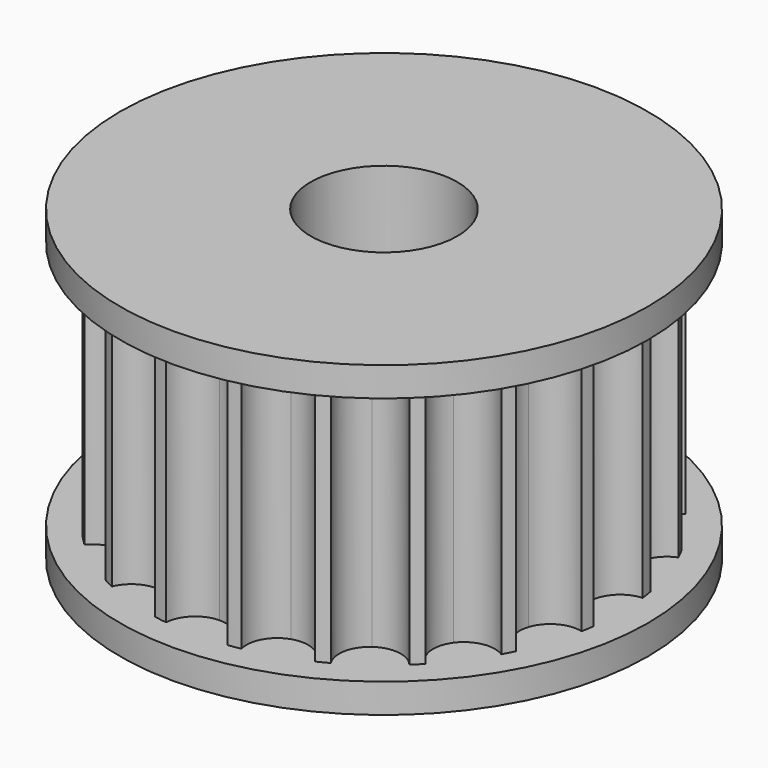
from build123d import *

# Parameters (mm, degrees)
F3_DEPTH = 8.5


with BuildPart() as f1:
    # F0 (on Front) → F1 (revolve)
    with BuildSketch(Plane.XZ):
        Polygon((9, 5.25), (2.5, 5.25), (2.5, -5.25), (9, -5.25), (9, -4.25), (7, -4.25), (7, 4.25), (9, 4.25), align=None)
    revolve(axis=Axis((0, 0, -3.0081442633), (0, 0, -1)))

    # F2 (on face) → F3 (join)
    with BuildSketch(Plane.XY.offset(-4.25)):
        with BuildLine():
            ThreePointArc((7.267101182, -3.4629092409), (6.7053936496, -2.9334995134), (6.657395615, -2.1631189579))
            ThreePointArc((6.657395615, -2.1631189579), (6.2370456655, -3.1779335057), (5.663118949, -4.114496782))
            ThreePointArc((5.663118949, -4.114496782), (6.3145824491, -3.7005096665), (7.0730473275, -3.8437613743))
            ThreePointArc((7.0730473275, -3.8437613743), (7.1726025197, -3.6546235229), (7.267101182, -3.4629092409))
        make_face()
        with BuildLine():
            ThreePointArc((7.9815217391, -1.0477646338), (7.2837095283, -0.7178432371), (7, 0))
            ThreePointArc((7, 0), (6.9138183844, -1.0950412539), (6.657395615, -2.1631189579))
            ThreePointArc((6.657395615, -2.1631189579), (7.1490451706, -1.5680805373), (7.9146553379, -1.4699424759))
            ThreePointArc((7.9146553379, -1.4699424759), (7.9508911418, -1.2592974436), (7.9815217391, -1.0477646338))
        make_face()
        with BuildLine():
            ThreePointArc((7.9146553379, 1.4699424759), (7.1490451776, 1.5680805334), (6.6573956199, 2.1631189425))
            ThreePointArc((6.6573956199, 2.1631189425), (6.9138183857, 1.0950412459), (7, 0))
            ThreePointArc((7, 0), (7.2837095283, 0.7178432371), (7.9815217391, 1.0477646338))
            ThreePointArc((7.9815217391, 1.0477646338), (7.9508911418, 1.2592974436), (7.9146553379, 1.4699424759))
        make_face()
        with BuildLine():
            ThreePointArc((5.8413261283, -5.5390801639), (5.4707071235, -4.8620044306), (5.663118949, -4.114496782))
            ThreePointArc((5.663118949, -4.114496782), (4.9497474683, -4.9497474683), (4.114496782, -5.663118949))
            ThreePointArc((4.114496782, -5.663118949), (4.8620044306, -5.4707071235), (5.5390801639, -5.8413261283))
            ThreePointArc((5.5390801639, -5.8413261283), (5.6922095886, -5.6922095886), (5.8413261283, -5.5390801639))
        make_face()
        with BuildLine():
            ThreePointArc((3.8437613743, -7.0730473275), (3.7005096665, -6.3145824491), (4.114496782, -5.663118949))
            ThreePointArc((4.114496782, -5.663118949), (3.1779334985, -6.2370456692), (2.1631189425, -6.6573956199))
            ThreePointArc((2.1631189425, -6.6573956199), (2.933499506, -6.7053936461), (3.4629092409, -7.267101182))
            ThreePointArc((3.4629092409, -7.267101182), (3.6546235229, -7.1726025197), (3.8437613743, -7.0730473275))
        make_face()
        with BuildLine():
            ThreePointArc((1.4699424759, -7.9146553379), (1.5680805334, -7.1490451776), (2.1631189425, -6.6573956199))
            ThreePointArc((2.1631189425, -6.6573956199), (1.0950412459, -6.9138183857), (0, -7))
            ThreePointArc((0, -7), (0.7178432371, -7.2837095283), (1.0477646338, -7.9815217391))
            ThreePointArc((1.0477646338, -7.9815217391), (1.2592974436, -7.9508911418), (1.4699424759, -7.9146553379))
        make_face()
        with BuildLine():
            ThreePointArc((0, -7), (-1.0950412668, -6.9138183823), (-2.1631189827, -6.6573956069))
            ThreePointArc((-2.1631189827, -6.6573956069), (-1.5680805436, -7.1490451591), (-1.4699424759, -7.9146553379))
            ThreePointArc((-1.4699424759, -7.9146553379), (-1.2592974436, -7.9508911418), (-1.0477646338, -7.9815217391))
            ThreePointArc((-1.0477646338, -7.9815217391), (-0.7178432371, -7.2837095283), (0, -7))
        make_face()
        with BuildLine():
            ThreePointArc((-2.1631189827, -6.6573956069), (-3.1779335128, -6.2370456619), (-4.1144967738, -5.663118955))
            ThreePointArc((-4.1144967738, -5.663118955), (-3.7005096655, -6.314582454), (-3.8437613743, -7.0730473275))
            ThreePointArc((-3.8437613743, -7.0730473275), (-3.6546235229, -7.1726025197), (-3.4629092409, -7.267101182))
            ThreePointArc((-3.4629092409, -7.267101182), (-2.9334995252, -6.7053936551), (-2.1631189827, -6.6573956069))
        make_face()
        with BuildLine():
            ThreePointArc((-4.1144967738, -5.663118955), (-4.9497474777, -4.9497474589), (-5.6631189706, -4.1144967523))
            ThreePointArc((-5.6631189706, -4.1144967523), (-5.4707071212, -4.8620044124), (-5.8413261283, -5.5390801639))
            ThreePointArc((-5.8413261283, -5.5390801639), (-5.6922095886, -5.6922095886), (-5.5390801639, -5.8413261283))
            ThreePointArc((-5.5390801639, -5.8413261283), (-4.8620044256, -5.4707071229), (-4.1144967738, -5.663118955))
        make_face()
        with BuildLine():
            ThreePointArc((-5.6631189706, -4.1144967523), (-6.2370456738, -3.1779334893), (-6.657395615, -2.1631189579))
            ThreePointArc((-6.657395615, -2.1631189579), (-6.7053936496, -2.9334995134), (-7.267101182, -3.4629092409))
            ThreePointArc((-7.267101182, -3.4629092409), (-7.1726025197, -3.6546235229), (-7.0730473275, -3.8437613743))
            ThreePointArc((-7.0730473275, -3.8437613743), (-6.3145824671, -3.700509663), (-5.6631189706, -4.1144967523))
        make_face()
        with BuildLine():
            ThreePointArc((-6.657395615, -2.1631189579), (-6.9138183853, -1.0950412479), (-7, 1.2e-08))
            ThreePointArc((-7, 1.2e-08), (-7.2837095242, -0.7178432327), (-7.9815217391, -1.0477646338))
            ThreePointArc((-7.9815217391, -1.0477646338), (-7.9508911418, -1.2592974436), (-7.9146553379, -1.4699424759))
            ThreePointArc((-7.9146553379, -1.4699424759), (-7.1490451706, -1.5680805373), (-6.657395615, -2.1631189579))
        make_face()
        with BuildLine():
            ThreePointArc((-7, 1.2e-08), (-6.9138183847, 1.0950412518), (-6.6573956199, 2.1631189425))
            ThreePointArc((-6.6573956199, 2.1631189425), (-7.1490451776, 1.5680805334), (-7.9146553379, 1.4699424759))
            ThreePointArc((-7.9146553379, 1.4699424759), (-7.9508911418, 1.2592974436), (-7.9815217391, 1.0477646338))
            ThreePointArc((-7.9815217391, 1.0477646338), (-7.2837095325, 0.7178432415), (-7, 1.2e-08))
        make_face()
        with BuildLine():
            ThreePointArc((-6.6573956199, 2.1631189425), (-6.2370456751, 3.1779334867), (-5.6631189645, 4.1144967607))
            ThreePointArc((-5.6631189645, 4.1144967607), (-6.314582462, 3.700509664), (-7.0730473275, 3.8437613743))
            ThreePointArc((-7.0730473275, 3.8437613743), (-7.1726025197, 3.6546235229), (-7.267101182, 3.4629092409))
            ThreePointArc((-7.267101182, 3.4629092409), (-6.7053936461, 2.933499506), (-6.6573956199, 2.1631189425))
        make_face()
        with BuildLine():
            ThreePointArc((-5.6631189645, 4.1144967607), (-4.9497474683, 4.9497474683), (-4.1144967607, 5.6631189645))
            ThreePointArc((-4.1144967607, 5.6631189645), (-4.8620044176, 5.4707071219), (-5.5390801639, 5.8413261283))
            ThreePointArc((-5.5390801639, 5.8413261283), (-5.6922095886, 5.6922095886), (-5.8413261283, 5.5390801639))
            ThreePointArc((-5.8413261283, 5.5390801639), (-5.4707071219, 4.8620044176), (-5.6631189645, 4.1144967607))
        make_face()
        with BuildLine():
            ThreePointArc((-4.1144967607, 5.6631189645), (-3.1779334867, 6.2370456751), (-2.1631189425, 6.6573956199))
            ThreePointArc((-2.1631189425, 6.6573956199), (-2.933499506, 6.7053936461), (-3.4629092409, 7.267101182))
            ThreePointArc((-3.4629092409, 7.267101182), (-3.6546235229, 7.1726025197), (-3.8437613743, 7.0730473275))
            ThreePointArc((-3.8437613743, 7.0730473275), (-3.700509664, 6.314582462), (-4.1144967607, 5.6631189645))
        make_face()
        with BuildLine():
            ThreePointArc((-8.7e-09, 7), (-0.7178432403, 7.2837095313), (-1.0477646338, 7.9815217391))
            ThreePointArc((-1.0477646338, 7.9815217391), (-1.2592974436, 7.9508911418), (-1.4699424759, 7.9146553379))
            ThreePointArc((-1.4699424759, 7.9146553379), (-1.5680805334, 7.1490451776), (-2.1631189425, 6.6573956199))
            ThreePointArc((-2.1631189425, 6.6573956199), (-1.0950412502, 6.913818385), (-8.7e-09, 7))
        make_face()
        with BuildLine():
            ThreePointArc((1.0477646338, 7.9815217391), (0.7178432339, 7.2837095254), (-8.7e-09, 7))
            ThreePointArc((-8.7e-09, 7), (1.0950412447, 6.9138183858), (2.1631189486, 6.657395618))
            ThreePointArc((2.1631189486, 6.657395618), (1.568080535, 7.1490451748), (1.4699424759, 7.9146553379))
            ThreePointArc((1.4699424759, 7.9146553379), (1.2592974436, 7.9508911418), (1.0477646338, 7.9815217391))
        make_face()
        with BuildLine():
            ThreePointArc((3.4629092409, 7.267101182), (2.9334995089, 6.7053936475), (2.1631189486, 6.657395618))
            ThreePointArc((2.1631189486, 6.657395618), (3.1779335013, 6.2370456677), (4.114496782, 5.663118949))
            ThreePointArc((4.114496782, 5.663118949), (3.7005096665, 6.3145824491), (3.8437613743, 7.0730473275))
            ThreePointArc((3.8437613743, 7.0730473275), (3.6546235229, 7.1726025197), (3.4629092409, 7.267101182))
        make_face()
        with BuildLine():
            ThreePointArc((5.5390801639, 5.8413261283), (4.8620044306, 5.4707071235), (4.114496782, 5.663118949))
            ThreePointArc((4.114496782, 5.663118949), (4.949747481, 4.9497474556), (5.6631189701, 4.114496753))
            ThreePointArc((5.6631189701, 4.114496753), (5.4707071213, 4.8620044128), (5.8413261283, 5.5390801639))
            ThreePointArc((5.8413261283, 5.5390801639), (5.6922095886, 5.6922095886), (5.5390801639, 5.8413261283))
        make_face()
        with BuildLine():
            ThreePointArc((7.0730473275, 3.8437613743), (6.3145824667, 3.7005096631), (5.6631189701, 4.114496753))
            ThreePointArc((5.6631189701, 4.114496753), (6.2370456773, 3.1779334825), (6.6573956199, 2.1631189425))
            ThreePointArc((6.6573956199, 2.1631189425), (6.7053936461, 2.933499506), (7.267101182, 3.4629092409))
            ThreePointArc((7.267101182, 3.4629092409), (7.1726025197, 3.6546235229), (7.0730473275, 3.8437613743))
        make_face()
    extrude(amount=F3_DEPTH)


solid = f1.part
